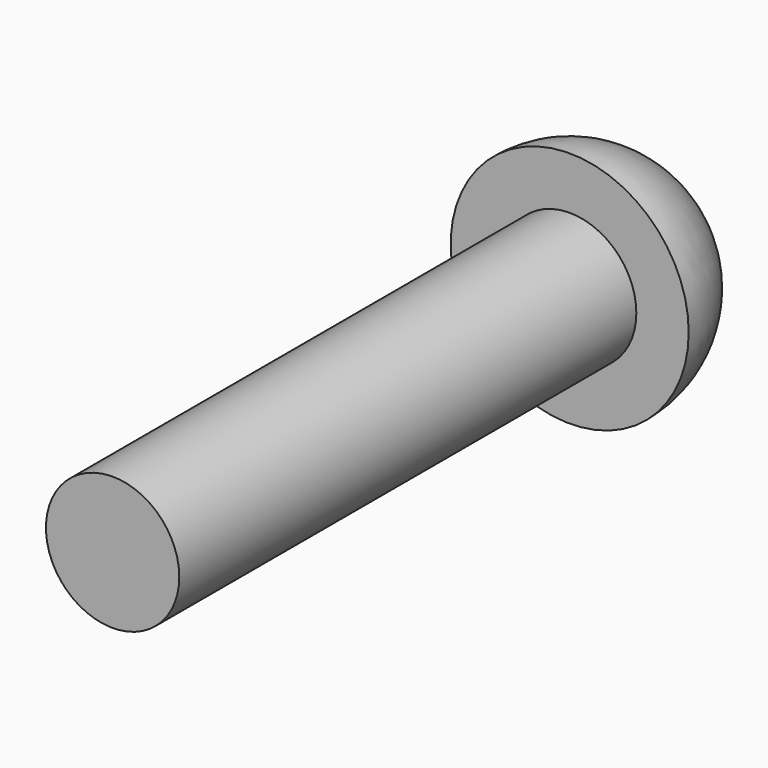
from build123d import *


with BuildPart() as part:
    # Sketch → Revolution (revolve)
    with BuildSketch(Plane.XY):
        with BuildLine():
            Line((0, 0), (1.4, 0))
            Line((1.4, 0), (1.4, 12))
            Line((1.4, 12), (2.5, 12))
            ThreePointArc((2.5, 12), (1.767767, 13.767767), (0, 14.5))
            Line((0, 14.5), (0, 0))
        make_face()
    revolve(axis=Axis((0, 0, 0), (0, 1, 0)))


solid = part.part
